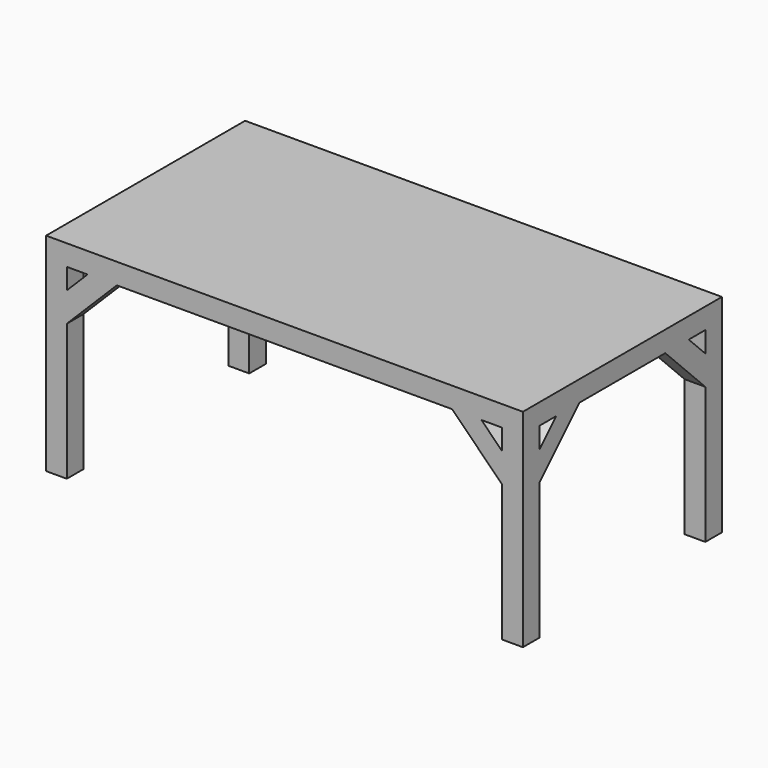
from build123d import *

# Parameters (mm, degrees)
F0_W     = 575
F0_H     = 300
F1_DEPTH = 50
F2_W     = 50
F2_H     = 50
F3_DEPTH = 450
F5_DEPTH = 50
F7_DEPTH = 50


with BuildPart() as f1:
    # F0 (on Top) → F1 (new body)
    with BuildSketch(Plane.XY):
        with Locations((287.5, -150)):
            Rectangle(F0_W, F0_H)
    extrude(amount=-F1_DEPTH)

    # F2 (on face) → F3 (join)
    with BuildSketch(Plane(origin=(0, 0, -50), x_dir=(1, 0, 0), z_dir=(0, 0, -1))):
        with Locations((550, 275)):
            Rectangle(F2_W, F2_H)
    extrude(amount=F3_DEPTH)

    # F4 (on face) → F5 (join, through all)
    with BuildSketch(Plane.XZ.offset(300)):
        Polygon((525, -170.710678), (525, -100), (475, -50), (404.289322, -50), align=None)
    extrude(amount=-F5_DEPTH)

    # F6 (on face) → F7 (join, through all)
    with BuildSketch(Plane.YZ.offset(575)):
        Polygon((-200, -50), (-250, -100), (-250, -170.710678), (-129.289322, -50), align=None)
    extrude(amount=-F7_DEPTH)

    # F8: F1 across plane


with BuildPart() as f1_1:
    add(f1.part)
    add(f1.part.mirror(Plane.YZ))

    # F9: F1 across plane


with BuildPart() as f1_2:
    add(f1_1.part)
    add(f1_1.part.mirror(Plane.XZ))


solid = f1_2.part
